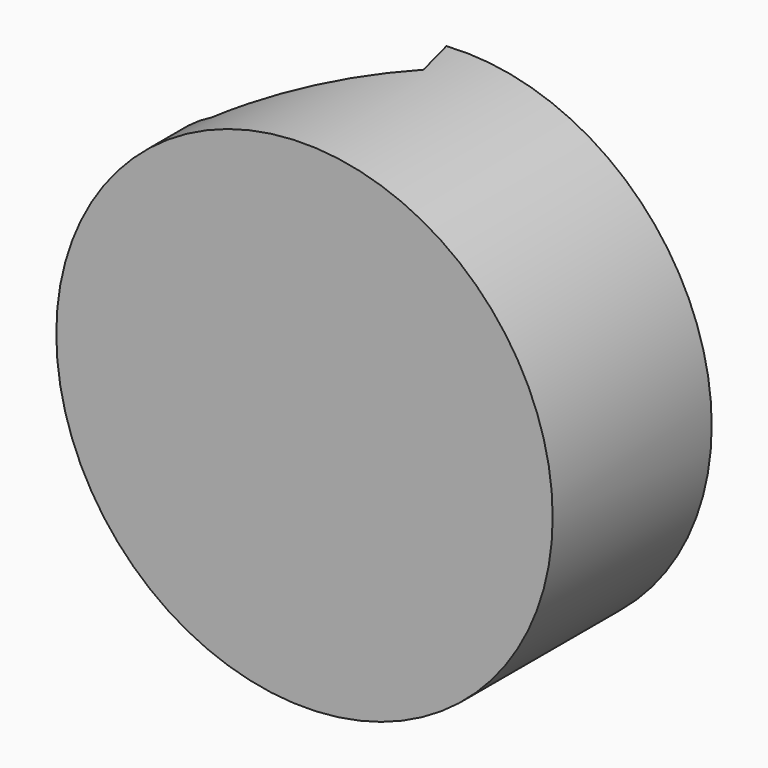
from build123d import *

# Parameters (mm, degrees)
F0_R          = 31.2169949435
F1_DEPTH      = 25
F3_DEPTH      = 44
F3_TAPER      = -3
F3_DEPTH_BACK = 25


with BuildPart() as f1:
    # F0 (on Front) → F1 (new body)
    with BuildSketch(Plane.XZ):
        with Locations((23.8612815738, -5.9305061586)):
            Circle(F0_R)
    extrude(amount=F1_DEPTH)


with BuildPart() as f3:
    # F2 (on Top) → F3 (new body, two sides)
    with BuildSketch(Plane.XY) as f3_sk:
        Polygon((21.6927394478, -5.0327842001), (16.6236866582, 13.8126411778), (-2.2314568589, 18.8454253778), (-16.0175475864, 5.0327842001), (-10.9484947969, -13.8126411778), (7.9066487202, -18.8454253778), align=None)
    extrude(amount=F3_DEPTH, taper=F3_TAPER)
    extrude(f3_sk.sketch, amount=-F3_DEPTH_BACK)


with BuildPart() as f1_1:
    add(f1.part)

    # F4: cut F3
    add(f3.part, mode=Mode.SUBTRACT)


solid = f1_1.part
